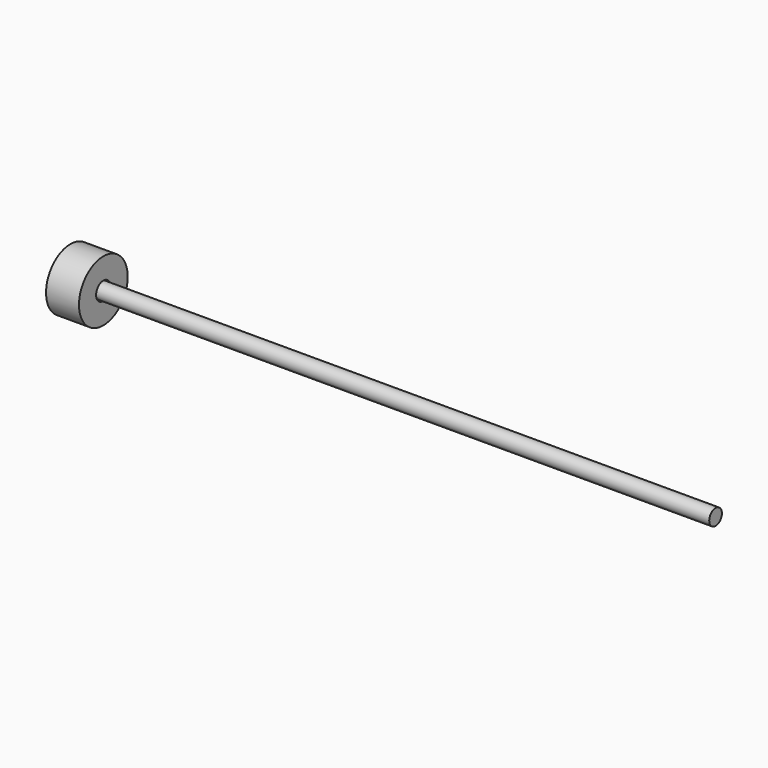
from build123d import *

# Parameters (mm, degrees)
F0_R     = 1.371543
F1_DEPTH = 111.6
F2_R     = 5.269297
F2_R_2   = 1.5638
F3_DEPTH = 5.7


with BuildPart() as f1:
    # F0 (on Right) → F1 (new body)
    with BuildSketch(Plane.YZ):
        Circle(F0_R)
    extrude(amount=F1_DEPTH)


with BuildPart() as f3:
    # F2 (on Right) → F3 (new body)
    with BuildSketch(Plane.YZ):
        Circle(F2_R)
        Circle(F2_R_2, mode=Mode.SUBTRACT)
    extrude(amount=F3_DEPTH)


solid = Compound([f1.part, f3.part])
